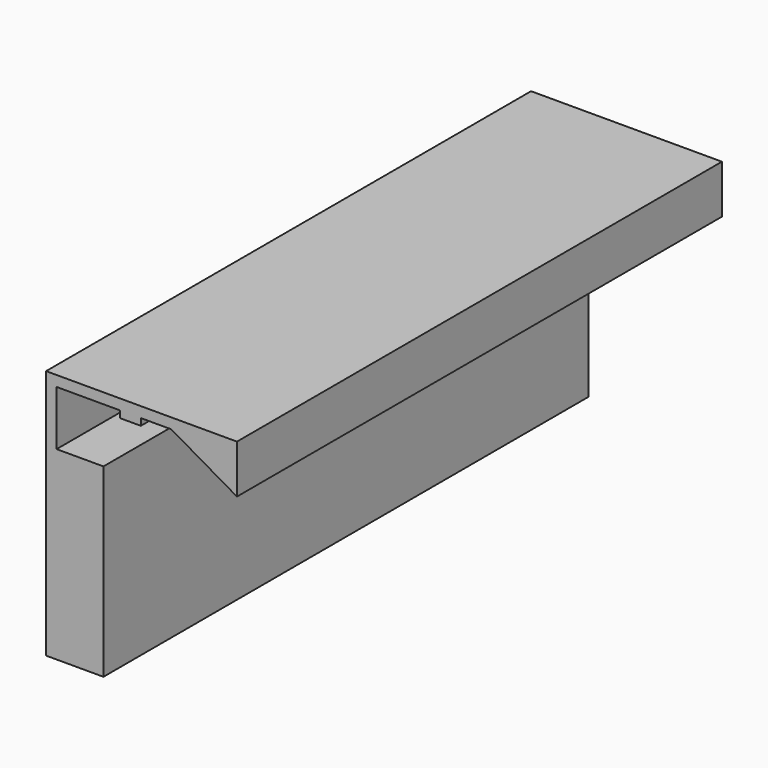
from build123d import *

# Parameters (mm, degrees)
F1_DEPTH = 3657.6


with BuildPart() as f1:
    # F0 (on Front) → F1 (new body, symmetric)
    with BuildSketch(Plane.XZ):
        Polygon((-459.446815, -1511.3), (-459.446815, 723.9), (-1024.596815, 723.9), (-1024.596815, 1384.3), (-262.596815, 1384.3), (-262.596815, 1301.75), (-8.596815, 1301.75), (-8.596815, 1384.3), (359.703185, 1384.3), (1151.596815, 927.1), (1151.596815, 1511.3), (-1151.596815, 1511.3), (-1151.596815, -1511.3), align=None)
    extrude(amount=F1_DEPTH, both=True)


solid = f1.part
